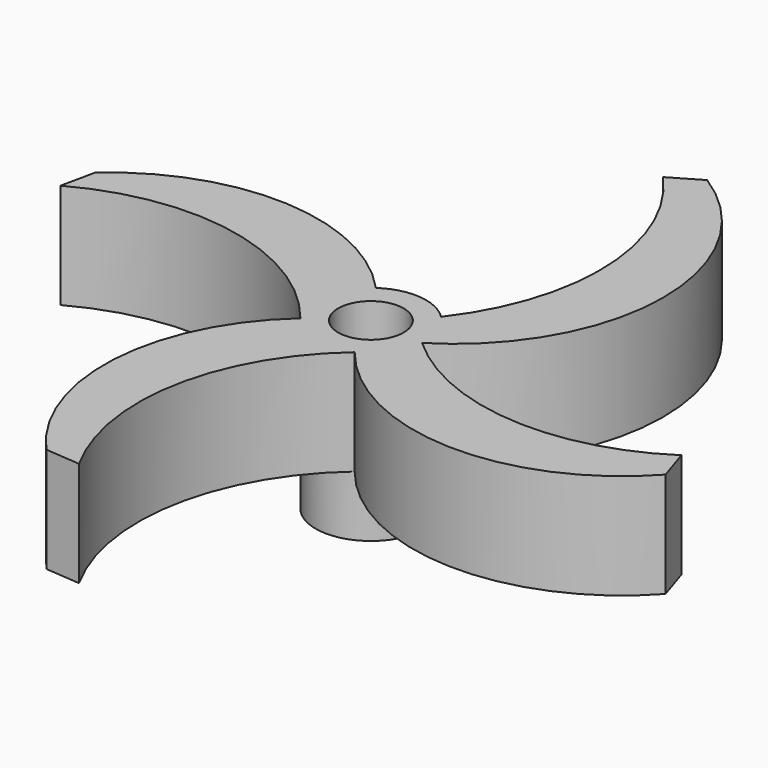
from build123d import *

# Parameters (mm, degrees)
F0_R     = 4
F0_R_2   = 2.375
F1_DEPTH = 6
F3_DEPTH = 7.62


with BuildPart() as f1:
    # F0 (on Top) → F1 (new body, symmetric)
    with BuildSketch(Plane.XY):
        Circle(F0_R)
        Circle(F0_R_2, mode=Mode.SUBTRACT)
    extrude(amount=F1_DEPTH, both=True)

    # F2 (on face) → F3 (join)
    with BuildSketch(Plane.XY.offset(6)):
        with BuildLine():
            ThreePointArc((-1.9231746538, -24.0532388516), (-3.7478638442, -13.1853053628), (1.7141412384, -3.614100139))
            ThreePointArc((1.7141412384, -3.614100139), (-1.026790754, -3.8659669874), (-3.2815280129, -2.2872634087))
            ThreePointArc((-3.2815280129, -2.2872634087), (-8.3896329921, -12.8229645422), (-4.4550945329, -23.8507994143))
            Line((-4.4550945329, -23.8507994143), (-1.9231746538, -24.0532388516))
        make_face()
        with BuildLine():
            ThreePointArc((-3.2815280129, -2.2872634087), (-3.9361819774, 0.7116680692), (-2.2728769699, 3.2915088151))
            ThreePointArc((-2.2728769699, 3.2915088151), (-12.6666400466, 8.2098960617), (-23.5180136949, 4.4061434477))
            Line((-23.5180136949, 4.4061434477), (-24.0532388516, 1.9231746538))
            ThreePointArc((-24.0532388516, 1.9231746538), (-12.8963973291, 3.6215266899), (-3.2815280129, -2.2872634087))
        make_face()
        with BuildLine():
            ThreePointArc((1.9231746538, 24.0532388516), (6.2669055314, 13.6088157667), (2.8225517459, 2.8342903241))
            ThreePointArc((2.8225517459, 2.8342903241), (3.6939279219, 1.5345672055), (4, 0))
            ThreePointArc((4, 0), (3.9962376082, -0.17345022), (3.9849575106, -0.3465741462))
            ThreePointArc((3.9849575106, -0.3465741462), (11.1793944272, 12.4572056596), (4.1165925533, 25.3340658962))
            Line((4.1165925533, 25.3340658962), (1.9231746538, 24.0532388516))
        make_face()
        with BuildLine():
            ThreePointArc((24.0532388516, -1.9231746538), (13.7489229147, -4.5738896933), (3.9849575106, -0.3465741462))
            ThreePointArc((3.9849575106, -0.3465741462), (3.2846785483, -2.2827366984), (1.7141412384, -3.614100139))
            ThreePointArc((1.7141412384, -3.614100139), (13.1058972443, -9.3455478814), (24.8347379439, -4.3399616053))
            Line((24.8347379439, -4.3399616053), (24.0532388516, -1.9231746538))
        make_face()
    extrude(amount=-F3_DEPTH)


solid = f1.part
